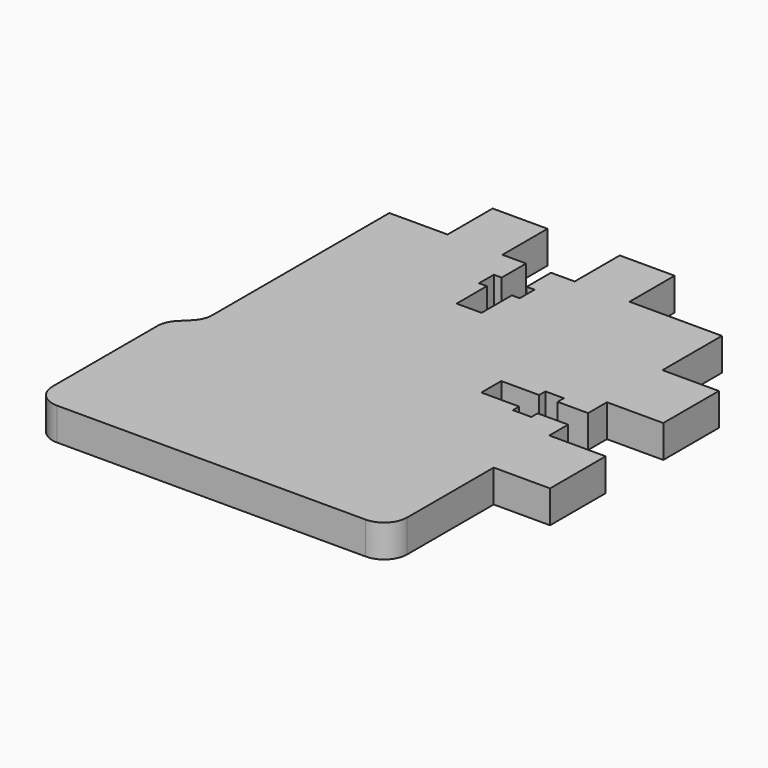
from build123d import *

# Parameters (mm, degrees)
F1_DEPTH = 4.4704


with BuildPart() as f1:
    # F0 (on Top) → F1 (new body)
    with BuildSketch(Plane.XY):
        with BuildLine():
            Line((0, 21.163872), (0, 3.175))
            ThreePointArc((0, 3.175), (0.929936, 0.929936), (3.175, 0))
            Line((3.175, 0), (45.593, 0))
            ThreePointArc((45.593, 0), (47.838064, 0.929936), (48.768, 3.175))
            Line((48.768, 3.175), (48.768, 18.034))
            Line((48.768, 18.034), (56.515, 18.034))
            Line((56.515, 18.034), (56.515, 27.5844))
            Line((56.515, 27.5844), (48.768, 27.5844))
            Line((48.768, 27.5844), (48.768, 30.8229))
            Line((48.768, 30.8229), (44.577, 30.8229))
            Line((44.577, 30.8229), (44.577, 29.7434))
            Line((44.577, 29.7434), (42.037, 29.7434))
            Line((42.037, 29.7434), (42.037, 30.8229))
            Line((42.037, 30.8229), (36.83, 30.8229))
            Line((36.83, 30.8229), (36.83, 34.2519))
            Line((36.83, 34.2519), (42.037, 34.2519))
            Line((42.037, 34.2519), (42.037, 35.3314))
            Line((42.037, 35.3314), (44.577, 35.3314))
            Line((44.577, 35.3314), (44.577, 34.2519))
            Line((44.577, 34.2519), (48.768, 34.2519))
            Line((48.768, 34.2519), (48.768, 37.4904))
            Line((48.768, 37.4904), (56.515, 37.4904))
            Line((56.515, 37.4904), (56.515, 47.0408))
            Line((56.515, 47.0408), (48.768, 47.0408))
            Line((48.768, 47.0408), (48.768, 57.2516))
            Line((48.768, 57.2516), (36.068, 57.2516))
            Line((36.068, 57.2516), (36.068, 64.9986))
            Line((36.068, 64.9986), (28.5242, 64.9986))
            Line((28.5242, 64.9986), (28.5242, 57.2516))
            Line((28.5242, 57.2516), (25.273, 57.2516))
            Line((25.273, 57.2516), (25.273, 53.0606))
            Line((25.273, 53.0606), (26.3525, 53.0606))
            Line((26.3525, 53.0606), (26.3525, 50.5206))
            Line((26.3525, 50.5206), (25.273, 50.5206))
            Line((25.273, 50.5206), (25.273, 45.3136))
            Line((25.273, 45.3136), (21.844, 45.3136))
            Line((21.844, 45.3136), (21.844, 50.5206))
            Line((21.844, 50.5206), (20.7645, 50.5206))
            Line((20.7645, 50.5206), (20.7645, 53.0606))
            Line((20.7645, 53.0606), (21.844, 53.0606))
            Line((21.844, 53.0606), (21.844, 57.2516))
            Line((21.844, 57.2516), (18.5928, 57.2516))
            Line((18.5928, 57.2516), (18.5928, 64.9986))
            Line((18.5928, 64.9986), (11.049, 64.9986))
            Line((11.049, 64.9986), (11.049, 57.2516))
            Line((11.049, 57.2516), (3.048, 57.2516))
            Line((3.048, 57.2516), (3.048, 26.842128))
            ThreePointArc((3.048, 26.842128), (2.806318, 25.627108), (2.118064, 24.597064))
            Line((2.118064, 24.597064), (0.929936, 23.408936))
            ThreePointArc((0.929936, 23.408936), (0.241682, 22.378892), (0, 21.163872))
        make_face()
    extrude(amount=F1_DEPTH)


solid = f1.part
